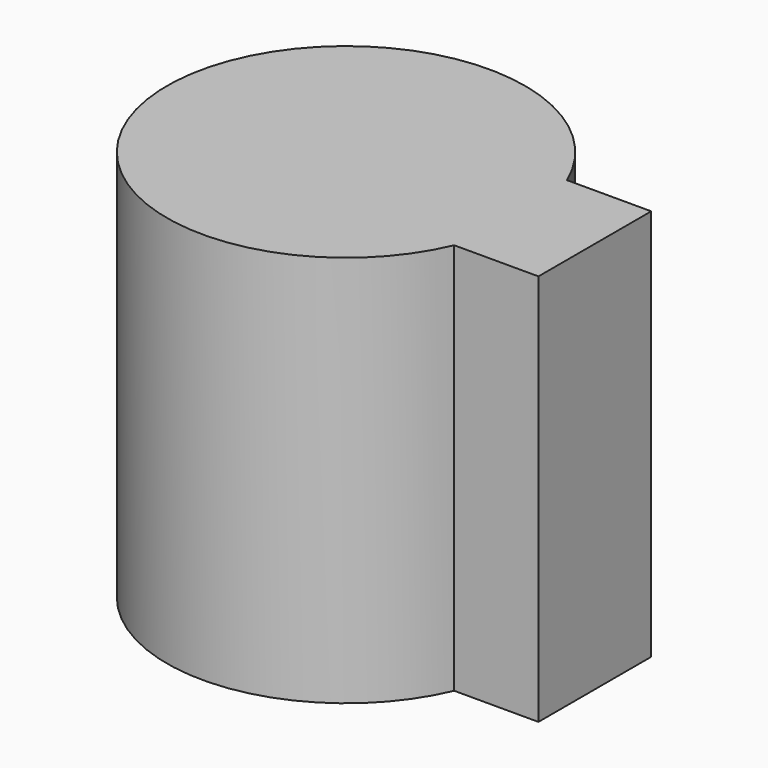
from build123d import *

# Parameters (mm, degrees)
F1_DEPTH = 76.2
F3_DEPTH = 25.4


with BuildPart() as f1:
    # F0 (on Top) → F1 (new body)
    with BuildSketch(Plane.XY):
        with BuildLine():
            Line((0, -27.3859966546), (0, 0))
            Line((0, 0), (31.9687693778, 0))
            ThreePointArc((31.9687693778, 0), (-34.7778725445, -13.6929983273), (31.9687693778, -27.3859966546))
            Line((31.9687693778, -27.3859966546), (0, -27.3859966546))
        make_face()
        with BuildLine():
            Line((31.9687693778, 0), (0, 0))
            Line((0, 0), (0, -27.3859966546))
            Line((0, -27.3859966546), (31.9687693778, -27.3859966546))
            ThreePointArc((31.9687693778, -27.3859966546), (34.0683592616, -20.6820838146), (34.7778725445, -13.6929983273))
            ThreePointArc((34.7778725445, -13.6929983273), (34.0683592616, -6.7039128401), (31.9687693778, 0))
        make_face()
        with BuildLine():
            Line((48.3367480338, 0), (31.9687693778, 0))
            ThreePointArc((31.9687693778, 0), (34.0683592616, -6.7039128401), (34.7778725445, -13.6929983273))
            ThreePointArc((34.7778725445, -13.6929983273), (34.0683592616, -20.6820838146), (31.9687693778, -27.3859966546))
            Line((31.9687693778, -27.3859966546), (48.3367480338, -27.3859966546))
            Line((48.3367480338, -27.3859966546), (48.3367480338, 0))
        make_face()
    extrude(amount=F1_DEPTH)

    # F2 (on face) → F3 (join)
    with BuildSketch(Plane.XY.offset(76.2)):
        with BuildLine():
            Line((38.9387477189, -17.9879963398), (38.9387477189, -9.3980003148))
            Line((38.9387477189, -9.3980003148), (25.0138143127, -9.3980003148))
            ThreePointArc((25.0138143127, -9.3980003148), (-25.3798722297, -13.6929983273), (25.0138143127, -17.9879963398))
            Line((25.0138143127, -17.9879963398), (38.9387477189, -17.9879963398))
        make_face()
    extrude(amount=-F3_DEPTH)


solid = f1.part
